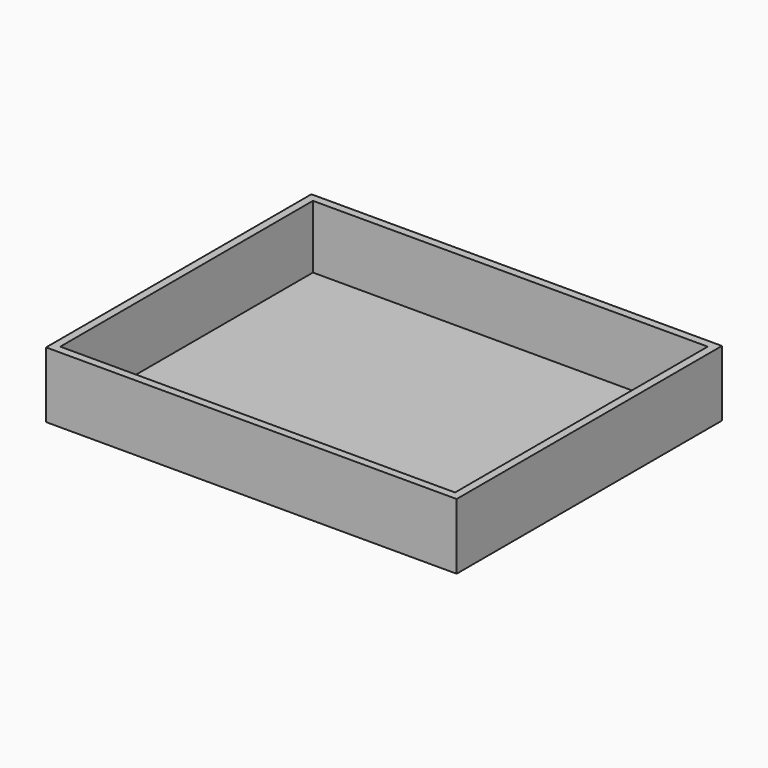
from build123d import *

# Parameters (mm, degrees)
F0_W     = 1560
F0_H     = 1260
F0_W_2   = 1500
F0_H_2   = 1200
F1_DEPTH = 250
F2_DEPTH = 10


with BuildPart() as f1:
    # F0 (on Top) → F1 (new body)
    with BuildSketch(Plane.XY):
        Rectangle(F0_W, F0_H)
        Rectangle(F0_W_2, F0_H_2, mode=Mode.SUBTRACT)
    extrude(amount=F1_DEPTH)

    # F0 (on Top) → F2 (join)
    with BuildSketch(Plane.XY):
        Rectangle(F0_W, F0_H)
        Rectangle(F0_W_2, F0_H_2, mode=Mode.SUBTRACT)
        Rectangle(F0_W_2, F0_H_2)
    extrude(amount=F2_DEPTH)


solid = f1.part
